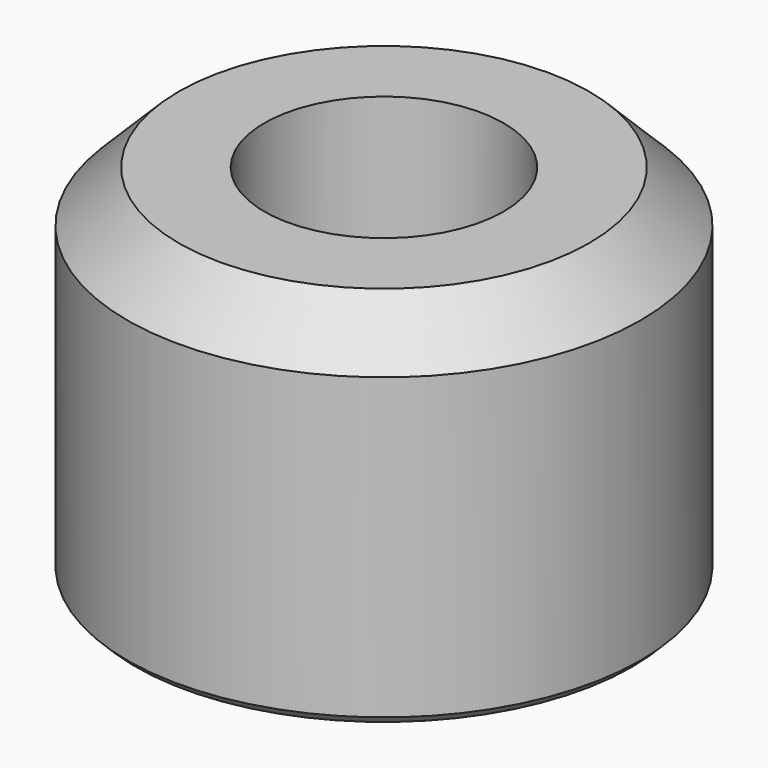
from build123d import *

# Parameters (mm, degrees)
F0_R     = 30
F0_R_2   = 14
F1_DEPTH = 42
F3_D     = 12
F3_DEPTH = 30
F3_TIP   = 3.6051637142
F4_SIZE  = 6
F5_SIZE  = 1


with BuildPart() as f1:
    # F0 (on Top) → F1 (new body)
    with BuildSketch(Plane.XY):
        Circle(F0_R)
        Circle(F0_R_2, mode=Mode.SUBTRACT)
    extrude(amount=F1_DEPTH)

    # F3 (one way)
    with BuildSketch(Plane.YZ):
        with Locations((0, 21)):
            Circle(F3_D / 2)
    extrude(amount=-F3_DEPTH, mode=Mode.SUBTRACT)
    with Locations(Plane.YZ):
        with Locations((0, 21)):
            with Locations((0, 0, -(F3_DEPTH + F3_TIP / 2))):  # 118° drill point
                Cone(0, F3_D / 2, F3_TIP, mode=Mode.SUBTRACT)

    # F4
    f4_edges = [f1.edges().sort_by_distance(p)[0] for p in [
        (-30, 0, 42),
    ]]
    chamfer(f4_edges, length=F4_SIZE)

    # F5
    f5_edges = [f1.edges().sort_by_distance(p)[0] for p in [
        (-30, 0, 0),
    ]]
    chamfer(f5_edges, length=F5_SIZE)


solid = f1.part
